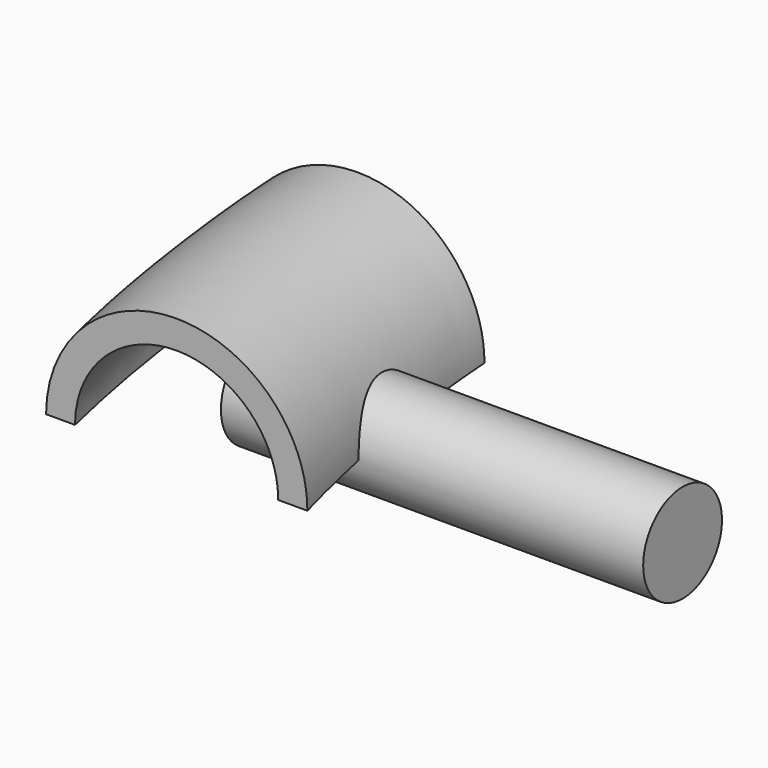
from build123d import *

# Parameters (mm, degrees)
F2_R          = 11.43
F2_R_2        = 8.89
F0_W          = 177.8
F0_H          = 5.7147379888
F4_DEPTH      = 25.4
F4_DEPTH_BACK = 25.4
F5_DEPTH      = 25.4
F7_R          = 4.445
F8_DEPTH      = 38.1


with BuildPart() as f3:
    # F3: sweep along a path in F0
    with BuildLine(Plane.XY) as f3_path:
        ThreePointArc((140.97, 0), (-140.9612054829, 1.5746265624), (140.9348230289, -3.1490566563))
        ThreePointArc((140.9348230289, -3.1490566563), (140.9612054829, -1.5746265624), (140.97, 0))
    # F2 (on line) → F3 (sweep)
    with BuildSketch(Plane(origin=(0, 0, 0), x_dir=(-1, 0, 0), z_dir=(0, 1, 0))):
        with Locations((-140.97, 0)):
            Circle(F2_R)
        with Locations((-140.97, 0)):
            Circle(F2_R_2, mode=Mode.SUBTRACT)
    sweep(path=f3_path.line)

    # F0 (on Top) → F4 (cut, two sides)
    with BuildSketch(Plane.XY) as f4_sk:
        with BuildLine():
            ThreePointArc((-140.6813228933, -9.017), (-4.5108098905, 140.8978122404), (140.97, 0))
            ThreePointArc((140.97, 0), (140.9612054829, -1.5746265624), (140.9348230289, -3.1490566563))
            ThreePointArc((140.9348230289, -3.1490566563), (15.7764325547, -140.0844212461), (-136.7041001982, -34.417))
            Line((-136.7041001982, -34.417), (-181.8818151951, -34.417))
            Line((-181.8818151951, -34.417), (-181.8818151951, -162.2846722603))
            Line((-181.8818151951, -162.2846722603), (186.068713665, -162.2846722603))
            Line((186.068713665, -162.2846722603), (186.068713665, 166.5027737617))
            Line((186.068713665, 166.5027737617), (-181.8818151951, 166.5027737617))
            Line((-181.8818151951, 166.5027737617), (-181.8818151951, -9.017))
            Line((-181.8818151951, -9.017), (-140.6813228933, -9.017))
        make_face()
        with BuildLine():
            ThreePointArc((-127.517044002, -34.417), (17.359078723, -130.9342918639), (132.08, 0))
            Line((132.08, 0), (94.4372, 0))
            Line((94.4372, 0), (94.4372, -16.0022620112))
            Line((94.4372, -16.0022620112), (94.4372, -21.717))
            Line((94.4372, -21.717), (-83.3628, -21.717))
            Line((-83.3628, -21.717), (-83.3628, -34.417))
            Line((-83.3628, -34.417), (-127.517044002, -34.417))
        make_face()
        with BuildLine():
            Line((94.4372, 0), (132.08, 0))
            ThreePointArc((132.08, 0), (-4.5111319594, 132.0029396962), (-131.7718487045, -9.017))
            Line((-131.7718487045, -9.017), (-83.3628, -9.017))
            Line((-83.3628, -9.017), (-83.3628, -16.0022620112))
            Line((-83.3628, -16.0022620112), (94.4372, -16.0022620112))
            Line((94.4372, -16.0022620112), (94.4372, 0))
        make_face()
        with Locations((5.5372, -18.8596310056)):
            Rectangle(F0_W, F0_H)
        with BuildLine():
            Line((140.97, 0), (132.08, 0))
            ThreePointArc((132.08, 0), (17.359078723, -130.9342918639), (-127.517044002, -34.417))
            Line((-127.517044002, -34.417), (-136.7041001982, -34.417))
            ThreePointArc((-136.7041001982, -34.417), (15.7764325547, -140.0844212461), (140.9348230289, -3.1490566563))
            ThreePointArc((140.9348230289, -3.1490566563), (140.9612054829, -1.5746265624), (140.97, 0))
        make_face()
        with BuildLine():
            ThreePointArc((-131.7718487045, -9.017), (-4.5111319594, 132.0029396962), (132.08, 0))
            Line((132.08, 0), (140.97, 0))
            ThreePointArc((140.97, 0), (-4.5108098905, 140.8978122404), (-140.6813228933, -9.017))
            Line((-140.6813228933, -9.017), (-131.7718487045, -9.017))
        make_face()
        with BuildLine():
            Line((94.4372, 0), (132.08, 0))
            ThreePointArc((132.08, 0), (-4.5111319594, 132.0029396962), (-131.7718487045, -9.017))
            Line((-131.7718487045, -9.017), (-83.3628, -9.017))
            Line((-83.3628, -9.017), (-83.3628, -16.0022620112))
            Line((-83.3628, -16.0022620112), (94.4372, -16.0022620112))
            Line((94.4372, -16.0022620112), (94.4372, 0))
        make_face()
    extrude(amount=F4_DEPTH, mode=Mode.SUBTRACT)
    extrude(f4_sk.sketch, amount=-F4_DEPTH_BACK, mode=Mode.SUBTRACT)

    # F0 (on Top) → F5 (cut)
    with BuildSketch(Plane.XY):
        with BuildLine():
            ThreePointArc((-139.2871595338, -21.717), (-140.1281923388, -15.3828024712), (-140.6813228933, -9.017))
            Line((-140.6813228933, -9.017), (-181.8818151951, -9.017))
            Line((-181.8818151951, -9.017), (-198.6888721585, -9.017))
            Line((-198.6888721585, -9.017), (-198.6888721585, -34.417))
            Line((-198.6888721585, -34.417), (-181.8818151951, -34.417))
            Line((-181.8818151951, -34.417), (-136.7041001982, -34.417))
            ThreePointArc((-136.7041001982, -34.417), (-138.1416532481, -28.0966997685), (-139.2871595338, -21.717))
        make_face()
        with BuildLine():
            Line((-83.3628, -9.017), (-131.7718487045, -9.017))
            ThreePointArc((-131.7718487045, -9.017), (-131.1808944972, -15.385035551), (-130.282379127, -21.717))
            Line((-130.282379127, -21.717), (-83.3628, -21.717))
            Line((-83.3628, -21.717), (-83.3628, -16.0022620112))
            Line((-83.3628, -16.0022620112), (-83.3628, -9.017))
        make_face()
        with BuildLine():
            ThreePointArc((-130.282379127, -21.717), (-129.056027141, -28.1010366106), (-127.517044002, -34.417))
            Line((-127.517044002, -34.417), (-83.3628, -34.417))
            Line((-83.3628, -34.417), (-83.3628, -21.717))
            Line((-83.3628, -21.717), (-130.282379127, -21.717))
        make_face()
        with BuildLine():
            Line((-136.7041001982, -34.417), (-127.517044002, -34.417))
            ThreePointArc((-127.517044002, -34.417), (-129.056027141, -28.1010366106), (-130.282379127, -21.717))
            Line((-130.282379127, -21.717), (-139.2871595338, -21.717))
            ThreePointArc((-139.2871595338, -21.717), (-138.1416532481, -28.0966997685), (-136.7041001982, -34.417))
        make_face()
        with BuildLine():
            ThreePointArc((-130.282379127, -21.717), (-131.1808944972, -15.385035551), (-131.7718487045, -9.017))
            Line((-131.7718487045, -9.017), (-140.6813228933, -9.017))
            ThreePointArc((-140.6813228933, -9.017), (-140.1281923388, -15.3828024712), (-139.2871595338, -21.717))
            Line((-139.2871595338, -21.717), (-130.282379127, -21.717))
        make_face()
    extrude(amount=-F5_DEPTH, mode=Mode.SUBTRACT)

    # F7 (on line) → F8 (join)
    with BuildSketch(Plane(origin=(-139.2871595338, 0, 0), x_dir=(0, -1, 0), z_dir=(-1, 0, 0))):
        with Locations((21.717, 0)):
            Circle(F7_R)
    extrude(amount=-F8_DEPTH)


solid = f3.part
